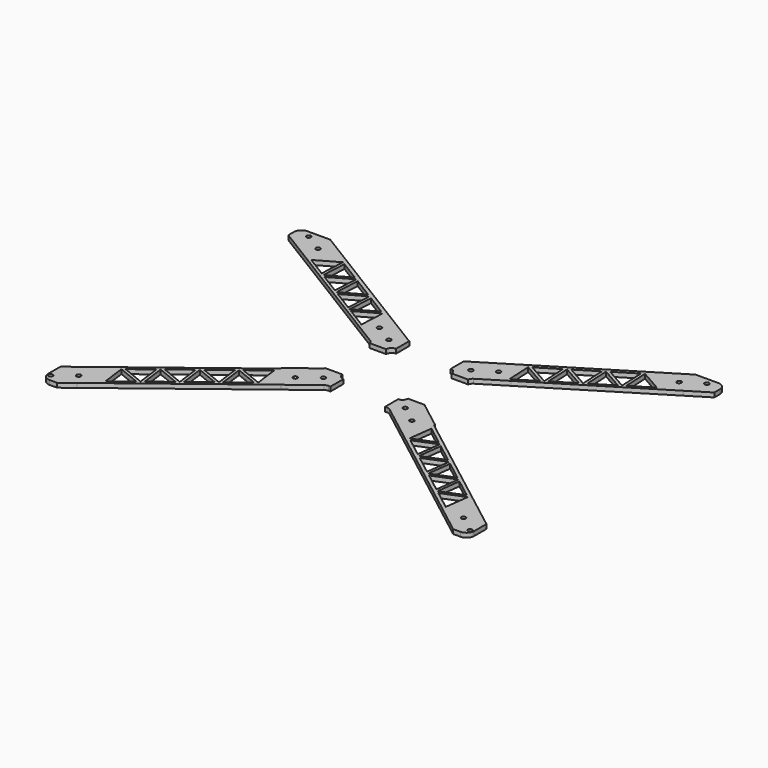
from build123d import *

# Parameters (mm, degrees)
F0_R     = 2
F1_DEPTH = 4
F2_R     = 7


with BuildPart() as f1:
    # F0 (on Top) → F1 (new body)
    with BuildSketch(Plane.XY):
        Polygon((-168.917429, 110.153006), (-164.606295, 107.5), (-157.268931, 119.423216), (-161.580066, 122.076222), (-178.518705, 132.5), (-195, 132.5), (-195, 126.203818), (-185.856069, 120.576784), align=None)
        with Locations((-165.248748, 116.114614)):
            Circle(F0_R, mode=Mode.SUBTRACT)
        with Locations((-182.281914, 126.596562)):
            Circle(F0_R, mode=Mode.SUBTRACT)
        Polygon((-151.5, 115.873105), (-151.5, 122.846154), (-167.1875, 132.5), (-178.518705, 132.5), (-161.580066, 122.076222), (-157.268931, 119.423216), align=None)
        Polygon((-157.268931, 119.423216), (-164.606295, 107.5), (-151.5, 107.5), (-151.5, 115.873105), align=None)
        Polygon((-195, 119.230769), (-175.9375, 107.5), (-164.606295, 107.5), (-168.917429, 110.153006), (-185.856069, 120.576784), (-195, 126.203818), align=None)
        Polygon((-175.9375, 107.5), (-70.239293, 42.454949), (-68.929049, 44.584095), (-86.509192, 55.402645), (-66.561831, 66.78067), (-67.58071, 46.775146), (-63.458177, 53.474263), (-56.677061, 64.493576), (-151.5, 122.846154), (-151.5, 115.873105), (-151.5, 107.5), (-164.606295, 107.5), align=None)
        Polygon((-91.619142, 58.547229), (-110.398451, 70.103727), (-90.451089, 81.481753), align=None, mode=Mode.SUBTRACT)
        Polygon((-139.397659, 87.949393), (-158.176967, 99.505891), (-138.229606, 110.883917), align=None, mode=Mode.SUBTRACT)
        Polygon((-116.895322, 97.755127), (-136.842684, 86.377101), (-135.674631, 109.311624), align=None, mode=Mode.SUBTRACT)
        Polygon((-115.508401, 73.248311), (-134.287709, 84.804809), (-114.340348, 96.182835), align=None, mode=Mode.SUBTRACT)
        Polygon((-93.006064, 83.054045), (-112.953426, 71.676019), (-111.785373, 94.610542), align=None, mode=Mode.SUBTRACT)
        Polygon((-69.116806, 68.352963), (-89.064167, 56.974937), (-87.896114, 79.90946), align=None, mode=Mode.SUBTRACT)
        with BuildLine():
            Line((-45.076431, 25), (-30, 25))
            ThreePointArc((-30, 25), (-28.535534, 28.535534), (-25, 30))
            Line((-25, 30), (-25, 45.204463))
            ThreePointArc((-25, 45.204463), (-25.62044, 45.433149), (-26.205276, 45.741708))
            Line((-26.205276, 45.741708), (-56.677061, 64.493576))
            Line((-56.677061, 64.493576), (-63.458177, 53.474263))
            Line((-63.458177, 53.474263), (-67.58071, 46.775146))
            Line((-67.58071, 46.775146), (-67.729884, 43.846147))
            Line((-67.729884, 43.846147), (-68.929049, 44.584095))
            Line((-68.929049, 44.584095), (-70.239293, 42.454949))
            Line((-70.239293, 42.454949), (-47.379513, 28.387393))
            ThreePointArc((-47.379513, 28.387393), (-45.865172, 26.940363), (-45.076431, 25))
        make_face()
        with Locations((-54.533166, 47.981949)):
            Circle(F0_R, mode=Mode.SUBTRACT)
        with Locations((-37.5, 37.5)):
            Circle(F0_R, mode=Mode.SUBTRACT)
        with BuildLine():
            Line((-25, -45), (-25, -30))
            ThreePointArc((-25, -30), (-28.535534, -28.535534), (-30, -25))
            Line((-30, -25), (-45.648159, -25))
            ThreePointArc((-45.648159, -25), (-46.224448, -25.81598), (-46.951446, -26.501112))
            Line((-46.951446, -26.501112), (-70.239526, -44.41502))
            Line((-70.239526, -44.41502), (-54.466308, -64.920202))
            Line((-54.466308, -64.920202), (-29.917989, -46.03688))
            ThreePointArc((-29.917989, -46.03688), (-28.479467, -45.266312), (-26.869436, -45))
            Line((-26.869436, -45), (-25, -45))
        make_face()
        with Locations((-53.35248, -49.694215)):
            Circle(F0_R, mode=Mode.SUBTRACT)
        with Locations((-37.5, -37.5)):
            Circle(F0_R, mode=Mode.SUBTRACT)
        Polygon((-54.466308, -64.920202), (-70.239526, -44.41502), (-70.239293, -45.566365), (-170, -122.305371), (-170, -153.792273), align=None)
        Polygon((-158.539803, -117.274731), (-138.251813, -125.57348), (-155.72269, -139.012616), align=None, mode=Mode.SUBTRACT)
        Polygon((-156.161931, -115.445599), (-138.691053, -102.006462), (-135.873941, -123.744347), align=None, mode=Mode.SUBTRACT)
        Polygon((-133.496069, -121.915215), (-136.313181, -100.17733), (-116.025191, -108.476078), align=None, mode=Mode.SUBTRACT)
        Polygon((-133.935309, -98.348198), (-116.464431, -84.909061), (-113.647319, -106.646946), align=None, mode=Mode.SUBTRACT)
        Polygon((-111.269447, -104.817814), (-114.086559, -83.079929), (-93.798569, -91.378677), align=None, mode=Mode.SUBTRACT)
        Polygon((-111.708687, -81.250796), (-94.237809, -67.811659), (-91.420697, -89.549545), align=None, mode=Mode.SUBTRACT)
        Polygon((-89.042825, -87.720412), (-91.859938, -65.982527), (-71.571947, -74.281276), align=None, mode=Mode.SUBTRACT)
        Polygon((-89.482066, -64.153395), (-72.011188, -50.714258), (-69.194075, -72.452143), align=None, mode=Mode.SUBTRACT)
        Polygon((-181.320045, -162.5), (-170, -153.792273), (-170, -122.305371), (-195, -141.53614), (-195, -162.5), align=None)
        with Locations((-192.061678, -156.393598)):
            Circle(F0_R, mode=Mode.SUBTRACT)
        with Locations((-176.209198, -144.199383)):
            Circle(F0_R, mode=Mode.SUBTRACT)
        with BuildLine():
            Line((45, 40), (45, 25))
            Line((45, 25), (45.076431, 25))
            ThreePointArc((45.076431, 25), (45.865172, 26.940363), (47.379513, 28.387393))
            Line((47.379513, 28.387393), (70.239293, 42.454949))
            Line((70.239293, 42.454949), (68.929049, 44.584095))
            Line((68.929049, 44.584095), (67.729884, 43.846147))
            Line((67.729884, 43.846147), (67.58071, 46.775146))
            Line((67.58071, 46.775146), (63.458177, 53.474263))
            Line((63.458177, 53.474263), (56.677061, 64.493576))
            Line((56.677061, 64.493576), (26.205276, 45.741708))
            ThreePointArc((26.205276, 45.741708), (25.62044, 45.433149), (25, 45.204463))
            Line((25, 45.204463), (25, 45))
            Line((25, 45), (40, 45))
            ThreePointArc((40, 45), (43.535534, 43.535534), (45, 40))
        make_face()
        with Locations((54.533166, 47.981949)):
            Circle(F0_R, mode=Mode.SUBTRACT)
        with BuildLine():
            ThreePointArc((25, 30), (28.535534, 28.535534), (30, 25))
            Line((30, 25), (45, 25))
            Line((45, 25), (45, 40))
            ThreePointArc((45, 40), (43.535534, 43.535534), (40, 45))
            Line((40, 45), (25, 45))
            Line((25, 45), (25, 30))
        make_face()
        with Locations((37.5, 37.5)):
            Circle(F0_R, mode=Mode.SUBTRACT)
        Polygon((68.929049, 44.584095), (70.239293, 42.454949), (175.9375, 107.5), (164.606295, 107.5), (151.5, 107.5), (151.5, 115.873105), (151.5, 122.846154), (56.677061, 64.493576), (63.458177, 53.474263), (67.58071, 46.775146), (66.561831, 66.78067), (86.509192, 55.402645), align=None)
        Polygon((87.896114, 79.90946), (89.064167, 56.974937), (69.116806, 68.352963), align=None, mode=Mode.SUBTRACT)
        Polygon((110.398451, 70.103727), (91.619142, 58.547229), (90.451089, 81.481753), align=None, mode=Mode.SUBTRACT)
        Polygon((111.785373, 94.610542), (112.953426, 71.676019), (93.006064, 83.054045), align=None, mode=Mode.SUBTRACT)
        Polygon((114.340348, 96.182835), (134.287709, 84.804809), (115.508401, 73.248311), align=None, mode=Mode.SUBTRACT)
        Polygon((135.674631, 109.311624), (136.842684, 86.377101), (116.895322, 97.755127), align=None, mode=Mode.SUBTRACT)
        Polygon((139.397659, 87.949393), (138.229606, 110.883917), (158.176967, 99.505891), align=None, mode=Mode.SUBTRACT)
        with BuildLine():
            ThreePointArc((30, -25), (28.535534, -28.535534), (25, -30))
            Line((25, -30), (25, -45))
            Line((25, -45), (26.869436, -45))
            Line((26.869436, -45), (40, -45))
            ThreePointArc((40, -45), (43.535534, -43.535534), (45, -40))
            Line((45, -40), (45, -25))
            Line((45, -25), (30, -25))
        make_face()
        with Locations((37.5, -37.5)):
            Circle(F0_R, mode=Mode.SUBTRACT)
        with BuildLine():
            Line((45.648159, -25), (45, -25))
            Line((45, -25), (45, -40))
            ThreePointArc((45, -40), (43.535534, -43.535534), (40, -45))
            Line((40, -45), (26.869436, -45))
            ThreePointArc((26.869436, -45), (28.479467, -45.266312), (29.917989, -46.03688))
            Line((29.917989, -46.03688), (54.466308, -64.920202))
            Line((54.466308, -64.920202), (70.239526, -44.41502))
            Line((70.239526, -44.41502), (46.951446, -26.501112))
            ThreePointArc((46.951446, -26.501112), (46.224448, -25.81598), (45.648159, -25))
        make_face()
        with Locations((53.35248, -49.694215)):
            Circle(F0_R, mode=Mode.SUBTRACT)
        Polygon((70.239526, -44.41502), (54.466308, -64.920202), (170, -153.792273), (170, -122.305371), (70.239293, -45.566365), align=None)
        Polygon((155.72269, -139.012616), (138.251813, -125.57348), (158.539803, -117.274731), align=None, mode=Mode.SUBTRACT)
        Polygon((116.025191, -108.476078), (136.313181, -100.17733), (133.496069, -121.915215), align=None, mode=Mode.SUBTRACT)
        Polygon((135.873941, -123.744347), (138.691053, -102.006462), (156.161931, -115.445599), align=None, mode=Mode.SUBTRACT)
        Polygon((93.798569, -91.378677), (114.086559, -83.079929), (111.269447, -104.817814), align=None, mode=Mode.SUBTRACT)
        Polygon((113.647319, -106.646946), (116.464431, -84.909061), (133.935309, -98.348198), align=None, mode=Mode.SUBTRACT)
        Polygon((71.571947, -74.281276), (91.859938, -65.982527), (89.042825, -87.720412), align=None, mode=Mode.SUBTRACT)
        Polygon((69.194075, -72.452143), (72.011188, -50.714258), (89.482066, -64.153395), align=None, mode=Mode.SUBTRACT)
        Polygon((91.420697, -89.549545), (94.237809, -67.811659), (111.708687, -81.250796), align=None, mode=Mode.SUBTRACT)
        Polygon((167.1875, 132.5), (151.5, 122.846154), (151.5, 115.873105), (157.268931, 119.423216), (161.580066, 122.076222), (178.518705, 132.5), align=None)
        Polygon((151.5, 107.5), (164.606295, 107.5), (157.268931, 119.423216), (151.5, 115.873105), align=None)
        Polygon((157.268931, 119.423216), (164.606295, 107.5), (168.917429, 110.153006), (185.856069, 120.576784), (195, 126.203818), (195, 132.5), (178.518705, 132.5), (161.580066, 122.076222), align=None)
        with Locations((165.248748, 116.114614)):
            Circle(F0_R, mode=Mode.SUBTRACT)
        with Locations((182.281914, 126.596562)):
            Circle(F0_R, mode=Mode.SUBTRACT)
        Polygon((164.606295, 107.5), (175.9375, 107.5), (195, 119.230769), (195, 126.203818), (185.856069, 120.576784), (168.917429, 110.153006), align=None)
        Polygon((170, -122.305371), (170, -153.792273), (181.320045, -162.5), (195, -162.5), (195, -141.53614), align=None)
        with Locations((192.061678, -156.393598)):
            Circle(F0_R, mode=Mode.SUBTRACT)
        with Locations((176.209198, -144.199383)):
            Circle(F0_R, mode=Mode.SUBTRACT)
    extrude(amount=F1_DEPTH)

    # F2
    f2_edges = [f1.edges().sort_by_distance(p)[0] for p in [
        (-195, -162.5, 2),
        (-195, 132.5, 2),
        (195, -162.5, 2),
        (195, 132.5, 2),
    ]]
    fillet(f2_edges, radius=F2_R)


solid = f1.part
